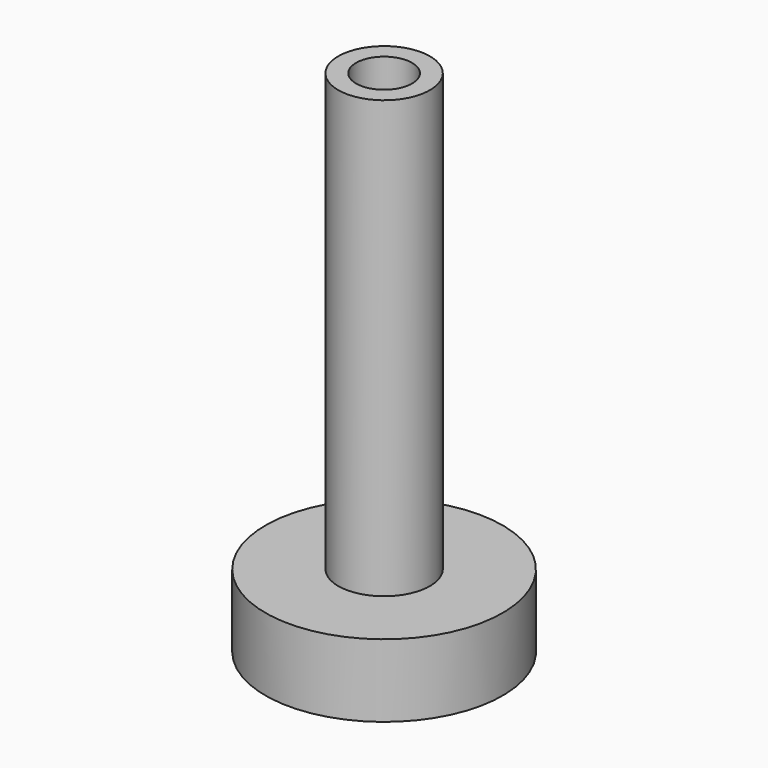
from build123d import *

# Parameters (mm, degrees)
F0_W     = 6.125
F0_H     = 150
F3_ANGLE = 180


with BuildPart() as f1:
    # F0 (on Front) → F1 (revolve)
    with BuildSketch(Plane.XZ):
        with Locations((12.6875, 75)):
            Rectangle(F0_W, F0_H)
        Polygon((9.625, 150), (15.75, 150), (40.75, 150), (40.75, 175), (9.625, 175), align=None)
    revolve(axis=Axis((0, 0, 75), (0, 0, 1)))


with BuildPart() as f1_1:
    # F3: moved
    add(f1.part.rotate(Axis((3.656138, 18.761864, 0), (0.191273, 0.981537, 0)), F3_ANGLE))


solid = f1_1.part
